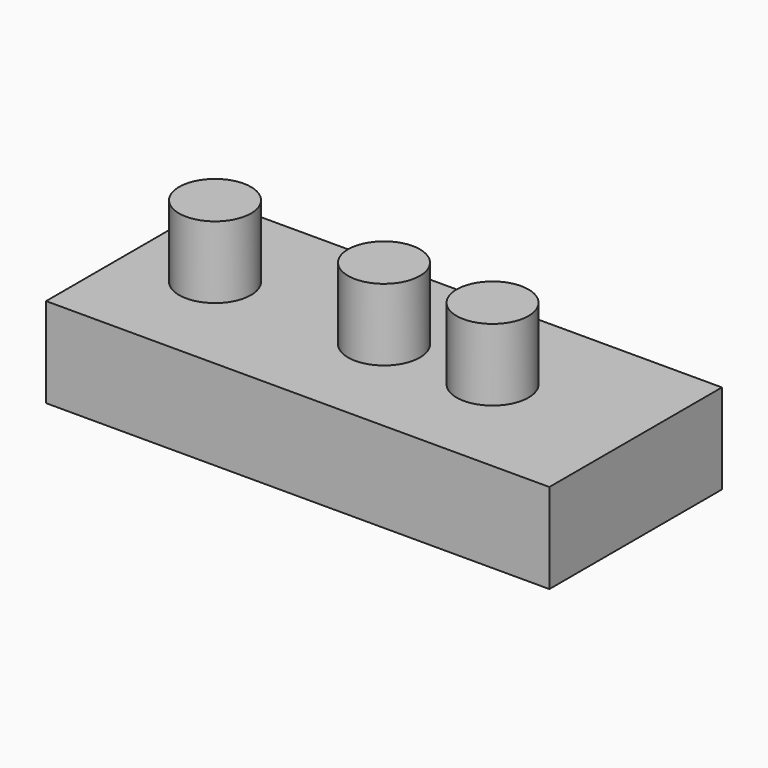
from build123d import *

# Parameters (mm, degrees)
F0_W     = 140
F0_H     = 60
F1_DEPTH = 25
F2_R     = 10
F5_DEPTH = 20
F3_R     = 10
F6_DEPTH = 20
F4_R     = 10
F7_DEPTH = 20


with BuildPart() as f1:
    # F0 (on Top) → F1 (new body)
    with BuildSketch(Plane.XY):
        Rectangle(F0_W, F0_H)
    extrude(amount=F1_DEPTH)

    # F2 (on face) → F5 (join)
    with BuildSketch(Plane.XY.offset(25)):
        with Locations((-47.00553, 0)):
            Circle(F2_R)
    extrude(amount=F5_DEPTH)

    # F3 (on face) → F6 (join)
    with BuildSketch(Plane.XY.offset(25)):
        Circle(F3_R)
    extrude(amount=F6_DEPTH)

    # F4 (on face) → F7 (join)
    with BuildSketch(Plane.XY.offset(25)):
        with Locations((30.194177, 0)):
            Circle(F4_R)
    extrude(amount=F7_DEPTH)


solid = f1.part
